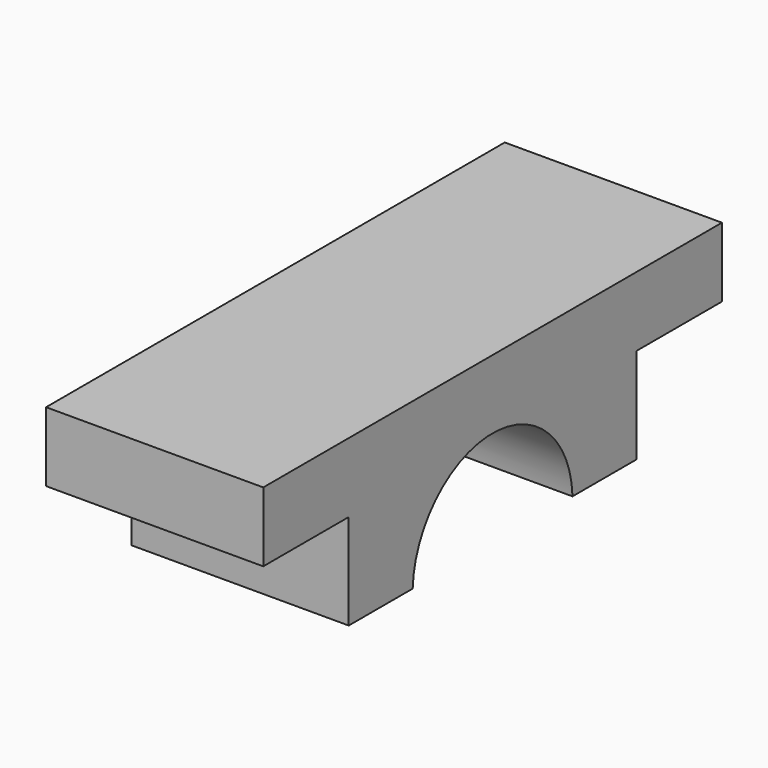
from build123d import *

# Parameters (mm, degrees)
F1_DEPTH = 25


with BuildPart() as f1:
    # F0 (on Right) → F1 (new body, symmetric)
    with BuildSketch(Plane.YZ):
        with BuildLine():
            Line((-68.631068, 16), (-68.631068, 0))
            Line((-68.631068, 0), (-44.032769, 0))
            Line((-44.032769, 0), (-44.032769, -22))
            Line((-44.032769, -22), (-25.631068, -22))
            ThreePointArc((-25.631068, -22), (-2.631068, 0.150878), (20.368932, -22))
            Line((20.368932, -22), (38.770634, -22))
            Line((38.770634, -22), (38.770634, 0))
            Line((38.770634, 0), (63.368932, 0))
            Line((63.368932, 0), (63.368932, 16))
            Line((63.368932, 16), (-68.631068, 16))
        make_face()
    extrude(amount=F1_DEPTH, both=True)


solid = f1.part
